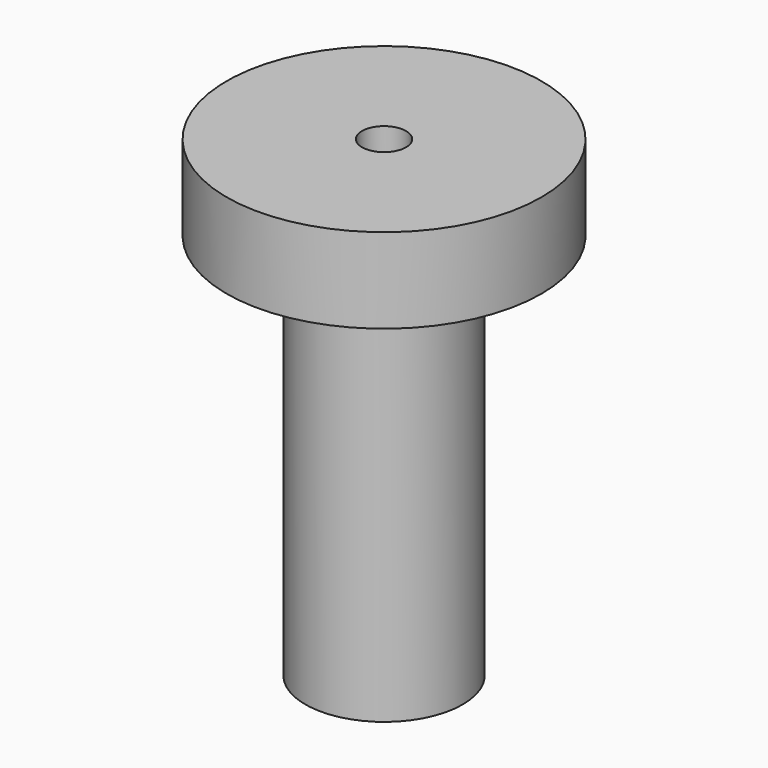
from build123d import *

# Parameters (mm, degrees)
F0_R     = 6.35
F1_DEPTH = 38.1
F3_R     = 5.3975
F4_DEPTH = 32.512
F5_R     = 12.7
F6_DEPTH = 6.858
F2_R     = 1.778
F7_DEPTH = 50.292


with BuildPart() as f1:
    # F0 (on Top) → F1 (new body)
    with BuildSketch(Plane.XY):
        Circle(F0_R)
    extrude(amount=F1_DEPTH)

    # F3 (on face) → F4 (cut)
    with BuildSketch(Plane(origin=(0, 0, 0), x_dir=(1, 0, 0), z_dir=(0, 0, -1))):
        Circle(F3_R)
    extrude(amount=-F4_DEPTH, mode=Mode.SUBTRACT)

    # F5 (on face) → F6 (join)
    with BuildSketch(Plane.XY.offset(38.1)):
        Circle(F5_R)
    extrude(amount=-F6_DEPTH)

    # F2 (on face) → F7 (cut)
    with BuildSketch(Plane(origin=(0, 0, 0), x_dir=(1, 0, 0), z_dir=(0, 0, -1))):
        Circle(F2_R)
    extrude(amount=-F7_DEPTH, mode=Mode.SUBTRACT)


solid = f1.part
